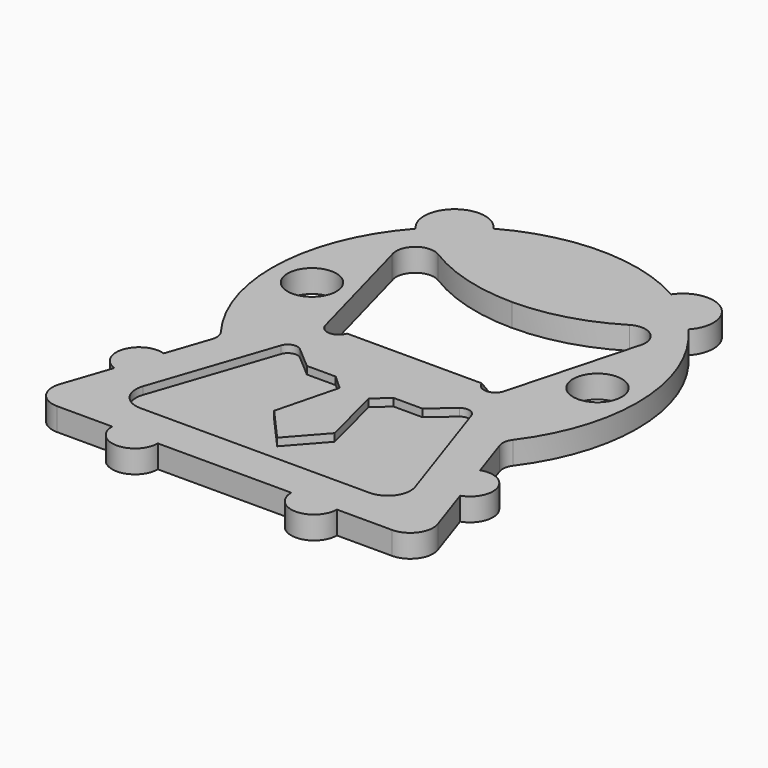
from build123d import *

# Parameters (mm, degrees)
F0_R     = 3.203715
F1_DEPTH = 3
F2_DEPTH = 25.4
F3_DEPTH = 2
F5_DEPTH = 10


with BuildPart() as f1:
    # F0 (on Top) → F1 (new body)
    with BuildSketch(Plane.XY):
        with BuildLine():
            ThreePointArc((-11.680029, 20.96609), (-17.5, 21.857493), (-17.903305, 15.983481))
            ThreePointArc((-17.903305, 15.983481), (-23.978213, 1.022394), (-19.198874, -14.401501))
            ThreePointArc((-19.198874, -14.401501), (-18.823966, -15.285228), (-18.90402, -16.241848))
            Line((-18.90402, -16.241848), (-20.787271, -21.815403))
            ThreePointArc((-20.787271, -21.815403), (-24.589744, -23.697211), (-22.707936, -27.499683))
            Line((-22.707936, -27.499683), (-24.850231, -33.839886))
            ThreePointArc((-24.850231, -33.839886), (-24.445404, -36.549362), (-22.00809, -37.800219))
            Line((-22.00809, -37.800219), (-14.760585, -37.800219))
            ThreePointArc((-14.760585, -37.800219), (-11.760585, -40.800219), (-8.760585, -37.800219))
            Line((-8.760585, -37.800219), (8.760585, -37.800219))
            ThreePointArc((8.760585, -37.800219), (11.760585, -40.800219), (14.760585, -37.800219))
            Line((14.760585, -37.800219), (22.00809, -37.800219))
            ThreePointArc((22.00809, -37.800219), (24.445404, -36.549362), (24.850231, -33.839886))
            Line((24.850231, -33.839886), (22.707936, -27.499683))
            ThreePointArc((22.707936, -27.499683), (24.589744, -23.697211), (20.787271, -21.815403))
            Line((20.787271, -21.815403), (18.90402, -16.241848))
            ThreePointArc((18.90402, -16.241848), (18.823966, -15.285228), (19.198874, -14.401501))
            ThreePointArc((19.198874, -14.401501), (23.978213, 1.022394), (17.903305, 15.983481))
            ThreePointArc((17.903305, 15.983481), (17.5, 21.857493), (11.680029, 20.96609))
            ThreePointArc((11.680029, 20.96609), (0, 24), (-11.680029, 20.96609))
        make_face()
        with BuildLine():
            Line((0, -32.800219), (-15.040925, -32.800219))
            ThreePointArc((-15.040925, -32.800219), (-17.478239, -31.549362), (-17.883065, -28.839886))
            Line((-17.883065, -28.839886), (-12.493026, -12.88786))
            ThreePointArc((-12.493026, -12.88786), (-11.625772, -12.069632), (-10.462435, -12.330929))
            Line((-10.462435, -12.330929), (-7.587114, -14.800219))
            Line((-7.587114, -14.800219), (-3.793557, -14.800219))
            Line((-3.793557, -14.800219), (0, -14.800219))
            Line((0, -14.800219), (3.793557, -14.800219))
            Line((3.793557, -14.800219), (7.587114, -14.800219))
            Line((7.587114, -14.800219), (10.462435, -12.330929))
            ThreePointArc((10.462435, -12.330929), (11.625772, -12.069632), (12.493026, -12.88786))
            Line((12.493026, -12.88786), (17.883065, -28.839886))
            ThreePointArc((17.883065, -28.839886), (17.478239, -31.549362), (15.040925, -32.800219))
            Line((15.040925, -32.800219), (0, -32.800219))
        make_face(mode=Mode.SUBTRACT)
        with Locations((-18.755235, 0.000856)):
            Circle(F0_R, mode=Mode.SUBTRACT)
        with BuildLine():
            ThreePointArc((0, 9.424817), (6.525388, 10.328945), (12.559127, 12.973208))
            ThreePointArc((12.559127, 12.973208), (15.477463, 12.755317), (16.189543, 9.916814))
            Line((16.189543, 9.916814), (11.735012, -6.569164))
            ThreePointArc((11.735012, -6.569164), (10.311116, -7.677698), (8.852234, -6.615628))
            Line((8.852234, -6.615628), (-8.852234, -6.615628))
            ThreePointArc((-8.852234, -6.615628), (-10.311116, -7.677698), (-11.735012, -6.569164))
            Line((-11.735012, -6.569164), (-16.189543, 9.916814))
            ThreePointArc((-16.189543, 9.916814), (-15.477463, 12.755317), (-12.559127, 12.973208))
            ThreePointArc((-12.559127, 12.973208), (-6.525388, 10.328945), (0, 9.424817))
        make_face(mode=Mode.SUBTRACT)
        with Locations((18.755235, 0.000856)):
            Circle(F0_R, mode=Mode.SUBTRACT)
        with BuildLine():
            ThreePointArc((-17.883065, -28.839886), (-17.478239, -31.549362), (-15.040925, -32.800219))
            Line((-15.040925, -32.800219), (0, -32.800219))
            Line((0, -32.800219), (15.040925, -32.800219))
            ThreePointArc((15.040925, -32.800219), (17.478239, -31.549362), (17.883065, -28.839886))
            Line((17.883065, -28.839886), (12.493026, -12.88786))
            ThreePointArc((12.493026, -12.88786), (11.625772, -12.069632), (10.462435, -12.330929))
            Line((10.462435, -12.330929), (7.587114, -14.800219))
            Line((7.587114, -14.800219), (3.793557, -14.800219))
            Line((3.793557, -14.800219), (1.896779, -16.519575))
            Line((1.896779, -16.519575), (3.978112, -24.680085))
            Line((3.978112, -24.680085), (0, -29.158387))
            Line((0, -29.158387), (-3.978112, -24.680085))
            Line((-3.978112, -24.680085), (-1.896779, -16.519575))
            Line((-1.896779, -16.519575), (-3.793557, -14.800219))
            Line((-3.793557, -14.800219), (-7.587114, -14.800219))
            Line((-7.587114, -14.800219), (-10.462435, -12.330929))
            ThreePointArc((-10.462435, -12.330929), (-11.625772, -12.069632), (-12.493026, -12.88786))
            Line((-12.493026, -12.88786), (-17.883065, -28.839886))
        make_face()
        Polygon((0, -18.238932), (-1.896779, -16.519575), (-3.978112, -24.680085), (0, -29.158387), (3.978112, -24.680085), (1.896779, -16.519575), align=None)
        Polygon((0, -14.800219), (-3.793557, -14.800219), (-1.896779, -16.519575), (0, -18.238932), (1.896779, -16.519575), (3.793557, -14.800219), align=None)
        Polygon((-8.852234, -6.615628), (8.852234, -6.615628), (7.976763, -3.746212), (0, -3.746212), (-7.976763, -3.746212), align=None)
    extrude(amount=F1_DEPTH)

    # F0 (on Top) → F2 (cut)
    with BuildSketch(Plane.XY):
        with BuildLine():
            ThreePointArc((-17.883065, -28.839886), (-17.478239, -31.549362), (-15.040925, -32.800219))
            Line((-15.040925, -32.800219), (0, -32.800219))
            Line((0, -32.800219), (15.040925, -32.800219))
            ThreePointArc((15.040925, -32.800219), (17.478239, -31.549362), (17.883065, -28.839886))
            Line((17.883065, -28.839886), (12.493026, -12.88786))
            ThreePointArc((12.493026, -12.88786), (11.625772, -12.069632), (10.462435, -12.330929))
            Line((10.462435, -12.330929), (7.587114, -14.800219))
            Line((7.587114, -14.800219), (3.793557, -14.800219))
            Line((3.793557, -14.800219), (1.896779, -16.519575))
            Line((1.896779, -16.519575), (3.978112, -24.680085))
            Line((3.978112, -24.680085), (0, -29.158387))
            Line((0, -29.158387), (-3.978112, -24.680085))
            Line((-3.978112, -24.680085), (-1.896779, -16.519575))
            Line((-1.896779, -16.519575), (-3.793557, -14.800219))
            Line((-3.793557, -14.800219), (-7.587114, -14.800219))
            Line((-7.587114, -14.800219), (-10.462435, -12.330929))
            ThreePointArc((-10.462435, -12.330929), (-11.625772, -12.069632), (-12.493026, -12.88786))
            Line((-12.493026, -12.88786), (-17.883065, -28.839886))
        make_face()
    extrude(amount=F2_DEPTH, mode=Mode.SUBTRACT)

    # F0 (on Top) → F3 (join)
    with BuildSketch(Plane.XY):
        with BuildLine():
            ThreePointArc((-17.883065, -28.839886), (-17.478239, -31.549362), (-15.040925, -32.800219))
            Line((-15.040925, -32.800219), (0, -32.800219))
            Line((0, -32.800219), (15.040925, -32.800219))
            ThreePointArc((15.040925, -32.800219), (17.478239, -31.549362), (17.883065, -28.839886))
            Line((17.883065, -28.839886), (12.493026, -12.88786))
            ThreePointArc((12.493026, -12.88786), (11.625772, -12.069632), (10.462435, -12.330929))
            Line((10.462435, -12.330929), (7.587114, -14.800219))
            Line((7.587114, -14.800219), (3.793557, -14.800219))
            Line((3.793557, -14.800219), (1.896779, -16.519575))
            Line((1.896779, -16.519575), (3.978112, -24.680085))
            Line((3.978112, -24.680085), (0, -29.158387))
            Line((0, -29.158387), (-3.978112, -24.680085))
            Line((-3.978112, -24.680085), (-1.896779, -16.519575))
            Line((-1.896779, -16.519575), (-3.793557, -14.800219))
            Line((-3.793557, -14.800219), (-7.587114, -14.800219))
            Line((-7.587114, -14.800219), (-10.462435, -12.330929))
            ThreePointArc((-10.462435, -12.330929), (-11.625772, -12.069632), (-12.493026, -12.88786))
            Line((-12.493026, -12.88786), (-17.883065, -28.839886))
        make_face()
    extrude(amount=F3_DEPTH)

    # F4 (on Right) → F5 (cut, symmetric)
    with BuildSketch(Plane.YZ):
        Polygon((-3.716471, 3.089604), (-6.690737, 3.080773), (-3.710722, 0), align=None)
    extrude(amount=F5_DEPTH, both=True, mode=Mode.SUBTRACT)


solid = f1.part
